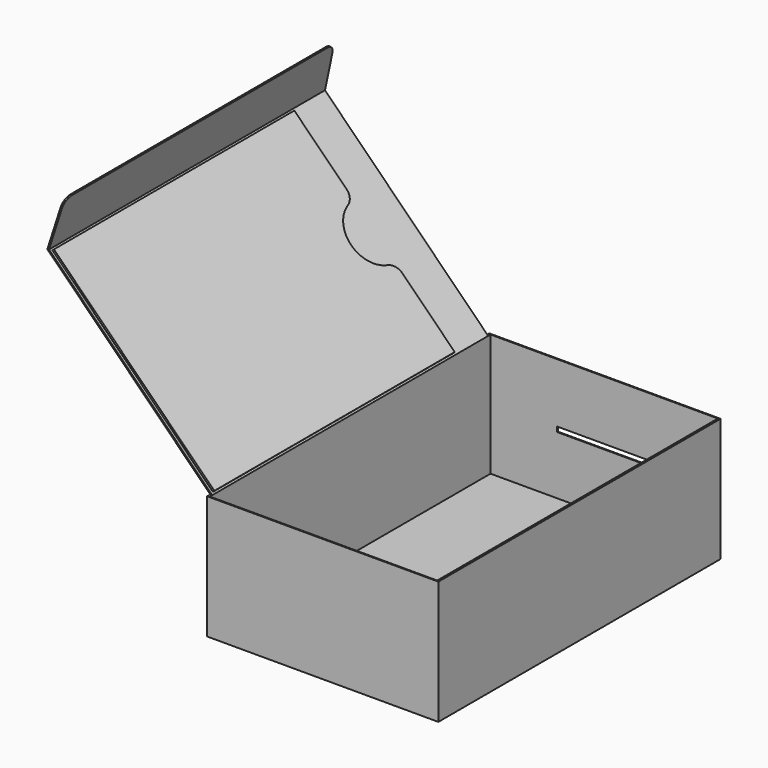
from build123d import *

# Parameters (mm, degrees)
F0_W          = 118
F0_H          = 180
F1_DEPTH      = 63
F2_W          = 116
F2_H          = 179
F3_DEPTH      = 62.5
F5_DEPTH      = 88
F5_DEPTH_BACK = 88
F6_SIZE2      = 2.0997279246
F6_SIZE       = 24
F6_2_SIZE2    = 2.0997279246
F6_2_SIZE     = 24
F7_R          = 5
F8_W          = 48
F8_H          = 2.5
F9_DEPTH      = 2
F11_DEPTH     = 1


with BuildPart() as f1:
    # F0 (on Top) → F1 (new body)
    with BuildSketch(Plane.XY):
        Rectangle(F0_W, F0_H)
    extrude(amount=F1_DEPTH)

    # F2 (on face) → F3 (cut)
    with BuildSketch(Plane.XY.offset(63)):
        Rectangle(F2_W, F2_H)
    extrude(amount=-F3_DEPTH, mode=Mode.SUBTRACT)

    # F4 (on Front) → F5 (join, two sides)
    with BuildSketch(Plane.XZ) as f5_sk:
        Polygon((-142.0850467894, 146.0850467894), (-59, 63), (-57.9865276814, 63), (-141.2585024524, 146.271974771), (-134.8901262921, 170.0390781628), (-135.6145706619, 170.2331924466), align=None)
    extrude(amount=F5_DEPTH)
    extrude(f5_sk.sketch, amount=-F5_DEPTH_BACK)

    # F6
    f6_edges = [f1.edges().sort_by_distance(p)[0] for p in [
        (-135.252348, -88, 170.136135),
    ]]
    f6_side = f1.faces().sort_by_distance((-100.446161, -88, 104.638886))[0]
    chamfer(f6_edges, length=F6_SIZE, length2=F6_SIZE2, reference=f6_side)

    # F6#2
    f6_2_edges = [f1.edges().sort_by_distance(p)[0] for p in [
        (-135.252348, 88, 170.136135),
    ]]
    f6_2_side = f1.faces().sort_by_distance((-100.446161, 88, 104.638886))[0]
    chamfer(f6_2_edges, length=F6_2_SIZE, length2=F6_2_SIZE2, reference=f6_2_side)

    # F7
    f7_edges = [f1.edges().sort_by_distance(p)[0] for p in [
        (-135.252348, 85.900272, 170.136135),
        (-135.252348, -85.900272, 170.136135),
    ]]
    fillet(f7_edges, radius=F7_R)

    # F8 (on face) → F9 (cut)
    with BuildSketch(Plane(origin=(0, 90, 0), x_dir=(-1, 0, 0), z_dir=(0, 1, 0))):
        with Locations((0, 31.5)):
            Rectangle(F8_W, F8_H)
    extrude(amount=-F9_DEPTH, mode=Mode.SUBTRACT)

    # F10 (on face) → F11 (join)
    with BuildSketch(Plane(origin=(2.5067361593, 0, 2.5067361593), x_dir=(0.7071067812, 0, -0.7071067812), z_dir=(0.7071067812, 0, 0.7071067812))):
        with BuildLine():
            Line((-202.3147502425, -86.6807101745), (-86.5503941557, -86.6807101745))
            Line((-86.5503941557, -86.6807101745), (-86.5503941557, 66.6807101745))
            Line((-86.5503941557, 66.6807101745), (-124.3079604016, 66.6807101745))
            ThreePointArc((-124.3079604016, 66.6807101745), (-127.8936462296, 65.4914125289), (-130.0578494866, 62.3949958888))
            ThreePointArc((-130.0578494866, 62.3949958888), (-144.4325721991, 51.6807101745), (-158.8072949116, 62.3949958888))
            ThreePointArc((-158.8072949116, 62.3949958888), (-160.9714981686, 65.4914125289), (-164.5571839966, 66.6807101745))
            Line((-164.5571839966, 66.6807101745), (-202.3147502425, 66.6807101745))
            Line((-202.3147502425, 66.6807101745), (-202.3147502425, -86.6807101745))
        make_face()
    extrude(amount=F11_DEPTH)


solid = f1.part
